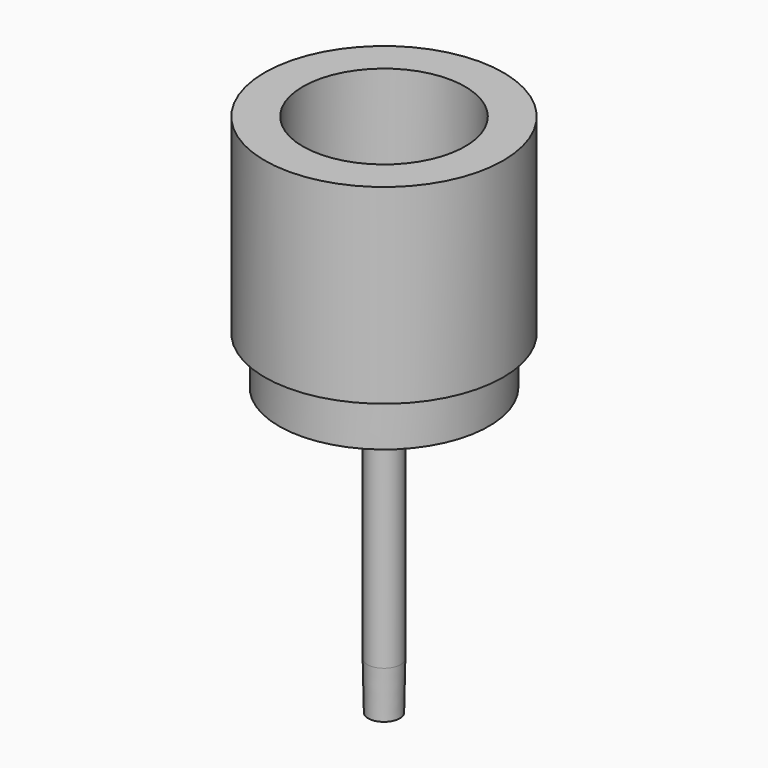
from build123d import *

# Parameters (mm, degrees)
F2_SIZE2 = 0.2
F2_SIZE  = 10


with BuildPart() as f1:
    # F0 (on Front) → F1 (revolve)
    with BuildSketch(Plane.XZ):
        with BuildLine():
            Line((0, 44.181132), (0, 49.181134))
            Line((0, 49.181134), (-17, 49.181134))
            Line((-17, 49.181134), (-17, 79.181135))
            Line((-17, 79.181135), (-25, 79.181135))
            Line((-25, 79.181135), (-25, 39.181132))
            Line((-25, 39.181132), (-22, 39.181132))
            Line((-22, 39.181132), (-22, 29.181132))
            Line((-22, 29.181132), (-4.5, 29.181132))
            ThreePointArc((-4.5, 29.181132), (-3.792893, 28.888239), (-3.5, 28.181132))
            Line((-3.5, 28.181132), (-3.5, -30.818868))
            Line((-3.5, -30.818868), (-3.25, -30.818868))
            Line((-3.25, -30.818868), (-3.25, 44.181132))
            Line((-3.25, 44.181132), (0, 44.181132))
        make_face()
    revolve(axis=Axis((0, 0, 1.49861), (0, 0, -1)))

    # F2
    f2_edges = [f1.edges().sort_by_distance(p)[0] for p in [
        (3.5, 0, -30.818868),
    ]]
    chamfer(f2_edges, length=F2_SIZE, length2=F2_SIZE2)


solid = f1.part
